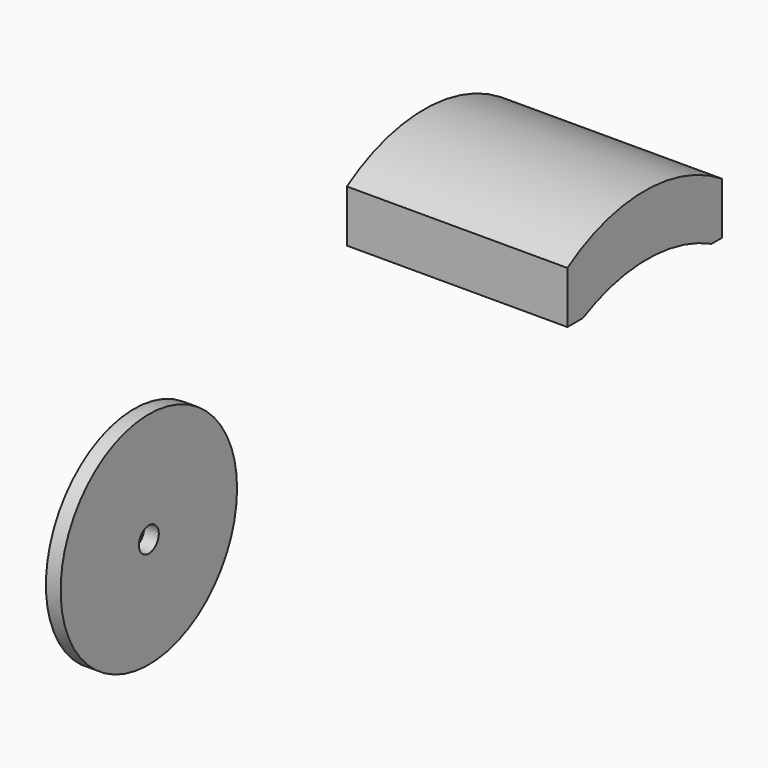
from build123d import *

# Parameters (mm, degrees)
F0_R     = 190.5
F1_DEPTH = 25.4
F2_R     = 21.500938
F3_DEPTH = 72.644
F5_DEPTH = 3.81
F7_DEPTH = 381


with BuildPart() as f1:
    # F0 (on Right) → F1 (new body)
    with BuildSketch(Plane.YZ):
        Circle(F0_R)
    extrude(amount=F1_DEPTH)

    # F2 (on face) → F3 (cut)
    with BuildSketch(Plane(origin=(0, 0, 0), x_dir=(0, -1, 0), z_dir=(-1, 0, 0))):
        Circle(F2_R)
    extrude(amount=-F3_DEPTH, mode=Mode.SUBTRACT)

    # F4 (on face) → F5 (cut)
    with BuildSketch(Plane(origin=(0, 0, 0), x_dir=(0, -1, 0), z_dir=(-1, 0, 0))):
        with BuildLine():
            add(Edge.make_bspline(
                [(-45.365423, 145.888194), (-48.815764, 120.850164), (11.397403, 125.309298), (71.610569, 129.768431), (14.847744, 150.347328), (-41.915081, 170.926225), (-45.365423, 145.888194)],
                knots=[0, 0, 0, 2.094395, 2.094395, 4.18879, 4.18879, 6.283185, 6.283185, 6.283185], degree=2, weights=[1, 0.5, 1, 0.5, 1, 0.5, 1]))
        make_face()
        with BuildLine():
            add(Edge.make_bspline(
                [(-128.163308, 66.008151), (-109.725582, 43.947306), (-75.224617, 91.517316), (-40.723652, 139.087327), (-93.662343, 113.578161), (-146.601033, 88.068996), (-128.163308, 66.008151)],
                knots=[0, 0, 0, 2.094395, 2.094395, 4.18879, 4.18879, 6.283185, 6.283185, 6.283185], degree=2, weights=[1, 0.5, 1, 0.5, 1, 0.5, 1]))
        make_face()
        with BuildLine():
            add(Edge.make_bspline(
                [(-114.373267, -76.443866), (-70.491691, -76.443866), (-92.432479, 0.619436), (-114.373267, 77.682737), (-136.314055, 0.619436), (-158.254842, -76.443866), (-114.373267, -76.443866)],
                knots=[0, 0, 0, 2.094395, 2.094395, 4.18879, 4.18879, 6.283185, 6.283185, 6.283185], degree=2, weights=[1, 0.5, 1, 0.5, 1, 0.5, 1]))
        make_face()
        with BuildLine():
            add(Edge.make_bspline(
                [(27.323976, -126.290634), (36.201424, -90.023326), (-42.888849, -89.883906), (-121.979121, -89.744486), (-51.766296, -126.151214), (18.446529, -162.557942), (27.323976, -126.290634)],
                knots=[0, 0, 0, 2.094395, 2.094395, 4.18879, 4.18879, 6.283185, 6.283185, 6.283185], degree=2, weights=[1, 0.5, 1, 0.5, 1, 0.5, 1]))
        make_face()
        with BuildLine():
            add(Edge.make_bspline(
                [(129.103094, -59.043366), (100.266461, -30.745903), (65.794589, -94.71636), (31.322718, -158.686817), (94.631223, -123.013823), (157.939728, -87.34083), (129.103094, -59.043366)],
                knots=[0, 0, 0, 2.094395, 2.094395, 4.18879, 4.18879, 6.283185, 6.283185, 6.283185], degree=2, weights=[1, 0.5, 1, 0.5, 1, 0.5, 1]))
        make_face()
        with BuildLine():
            add(Edge.make_bspline(
                [(138.45779, 43.711629), (121.394792, 78.117723), (59.913886, 26.193458), (-1.567021, -25.730807), (76.976883, -8.212637), (155.520788, 9.305534), (138.45779, 43.711629)],
                knots=[0, 0, 0, 2.094395, 2.094395, 4.18879, 4.18879, 6.283185, 6.283185, 6.283185], degree=2, weights=[1, 0.5, 1, 0.5, 1, 0.5, 1]))
        make_face()
    extrude(amount=-F5_DEPTH, mode=Mode.SUBTRACT)


with BuildPart() as f7:
    # F6 (on Right) → F7 (new body)
    with BuildSketch(Plane.YZ):
        with BuildLine():
            ThreePointArc((793.009055, 341.84617), (626.163647, 391.314494), (459.318238, 341.84617))
            Line((459.318238, 341.84617), (459.318238, 251.850771))
            Line((459.318238, 251.850771), (492.687314, 251.850771))
            ThreePointArc((492.687314, 251.850771), (631.725153, 285.220274), (770.762991, 251.850771))
            Line((770.762991, 251.850771), (793.009055, 251.850771))
            Line((793.009055, 251.850771), (793.009055, 341.84617))
        make_face()
    extrude(amount=F7_DEPTH)


solid = Compound([f1.part, f7.part])
